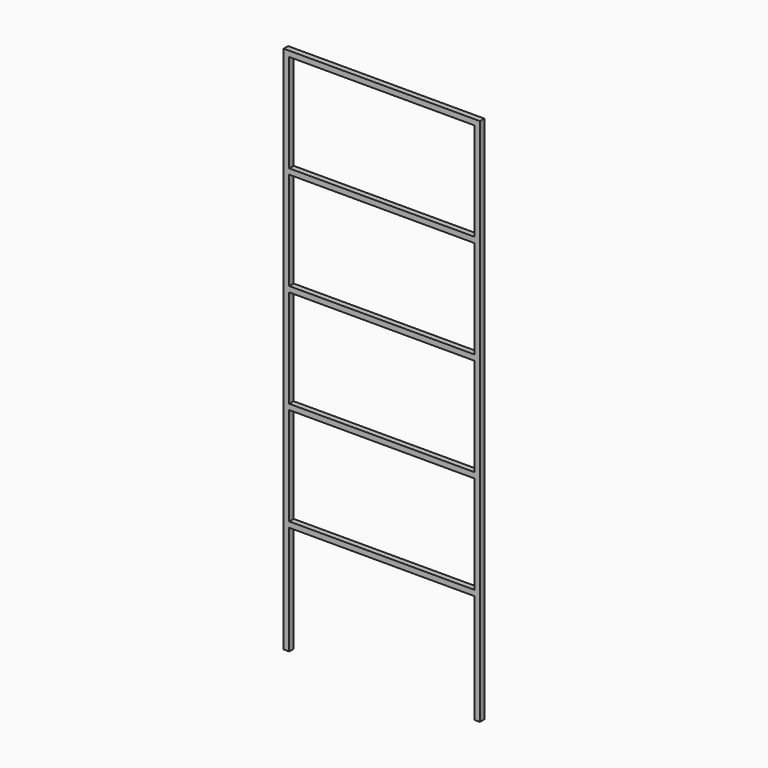
from build123d import *

# Parameters (mm, degrees)
F0_W     = 849.2
F0_H     = 450
F1_DEPTH = 25.4


with BuildPart() as f1:
    # F0 (on Front) → F1 (new body)
    with BuildSketch(Plane.XZ):
        Polygon((0, 2427), (0, 0), (25.4, 0), (25.4, 500), (874.6, 500), (874.6, 0), (900, 0), (900, 2427), align=None)
        with Locations((450, 750.4)):
            Rectangle(F0_W, F0_H, mode=Mode.SUBTRACT)
        with Locations((450, 1225.8)):
            Rectangle(F0_W, F0_H, mode=Mode.SUBTRACT)
        with Locations((450, 1701.2)):
            Rectangle(F0_W, F0_H, mode=Mode.SUBTRACT)
        with Locations((450, 2176.6)):
            Rectangle(F0_W, F0_H, mode=Mode.SUBTRACT)
    extrude(amount=F1_DEPTH)


solid = f1.part
